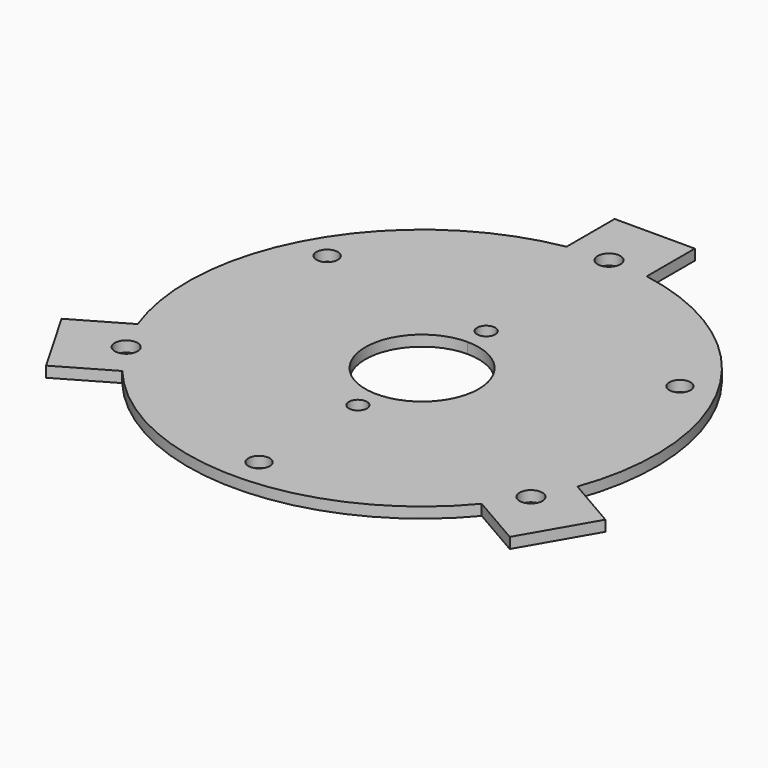
from build123d import *

# Parameters (mm, degrees)
F1_DEPTH = 2.54
F2_R     = 2.159
F3_R     = 2.7051
F4_R     = 2.54
F5_DEPTH = 2.54


with BuildPart() as f1:
    # F0 (on Top) → F1 (new body)
    with BuildSketch(Plane.XY):
        with BuildLine():
            Line((-9.525, 69.088), (-9.525, 54.8044364171))
            ThreePointArc((-9.525, 54.8044364171), (-48.1735291109, 27.813), (-52.2245341773, -19.1533262375))
            Line((-52.2245341773, -19.1533262375), (-64.5944630967, -26.295108029))
            Line((-64.5944630967, -26.295108029), (-55.0694630967, -42.792891971))
            Line((-55.0694630967, -42.792891971), (-42.6995341773, -35.6511101796))
            ThreePointArc((-42.6995341773, -35.6511101796), (0, -55.626), (42.6995341773, -35.6511101796))
            Line((42.6995341773, -35.6511101796), (55.0694630967, -42.792891971))
            Line((55.0694630967, -42.792891971), (64.5944630967, -26.295108029))
            Line((64.5944630967, -26.295108029), (52.2245341773, -19.1533262375))
            ThreePointArc((52.2245341773, -19.1533262375), (48.1735291109, 27.813), (9.525, 54.8044364171))
            Line((9.525, 54.8044364171), (9.525, 69.088))
            Line((9.525, 69.088), (-9.525, 69.088))
        make_face()
        with BuildLine():
            ThreePointArc((0, 13.462), (9.5190714883, 9.5190714883), (13.462, 0))
            ThreePointArc((13.462, 0), (-9.5190714883, -9.5190714883), (0, 13.462))
        make_face(mode=Mode.SUBTRACT)
    extrude(amount=F1_DEPTH)

    # F2 (on Top) + F3 (on Top) + F4 (on Top) → F5 (cut)
    with BuildSketch(Plane.XY):
        with Locations((0, 19.05)):
            Circle(F2_R)
        with Locations((0, -19.05)):
            Circle(F2_R)
    with BuildSketch(Plane.XY):
        with Locations((0, 55.519441794)):
            Circle(F3_R)
        with Locations((-48.1168723708, -27.697924297)):
            Circle(F3_R)
        with Locations((48.0812469975, -27.759720897)):
            Circle(F3_R)
    with BuildSketch(Plane.XY):
        with Locations((-41.9043712129, 24.1935)):
            Circle(F4_R)
        with Locations((41.9043712129, 24.1935)):
            Circle(F4_R)
        with Locations((0, -48.387)):
            Circle(F4_R)
    extrude(amount=F5_DEPTH, mode=Mode.SUBTRACT)


solid = f1.part
